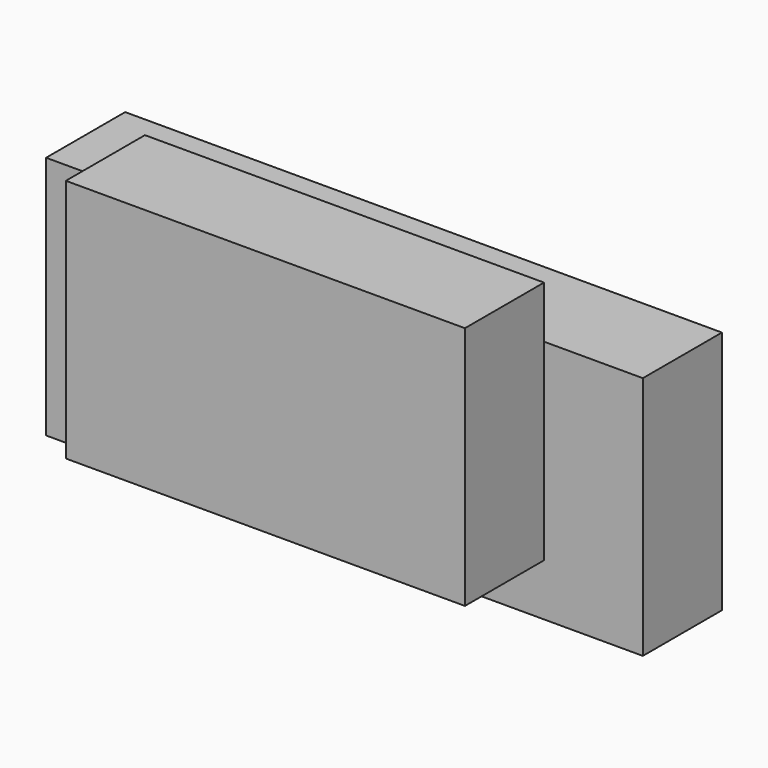
from build123d import *

# Parameters (mm, degrees)
F0_W     = 229.421454
F0_H     = 114
F1_DEPTH = 76
F3_W     = 38
F3_H     = 20
F4_DEPTH = 229.711727
F6_W     = 38
F6_H     = 38
F7_DEPTH = 114.001


with BuildPart() as f1:
    # F0 (on Front) → F1 (new body)
    with BuildSketch(Plane.XZ):
        Rectangle(F0_W, F0_H)
    extrude(amount=F1_DEPTH)

    # F3 (on offset) → F4 (cut, through all)
    with BuildSketch(Plane.YZ.offset(115)):
        with Locations((-19, 47)):
            Rectangle(F3_W, F3_H)
        with Locations((-57, -47)):
            Rectangle(F3_W, F3_H)
    extrude(amount=-F4_DEPTH, mode=Mode.SUBTRACT)

    # F6 (on offset) → F7 (cut, through all)
    with BuildSketch(Plane.XY.offset(57)):
        with Locations((-95.710727, -57)):
            Rectangle(F6_W, F6_H)
        with Locations((95.710727, -57)):
            Rectangle(F6_W, F6_H)
    extrude(amount=-F7_DEPTH, mode=Mode.SUBTRACT)


solid = f1.part
